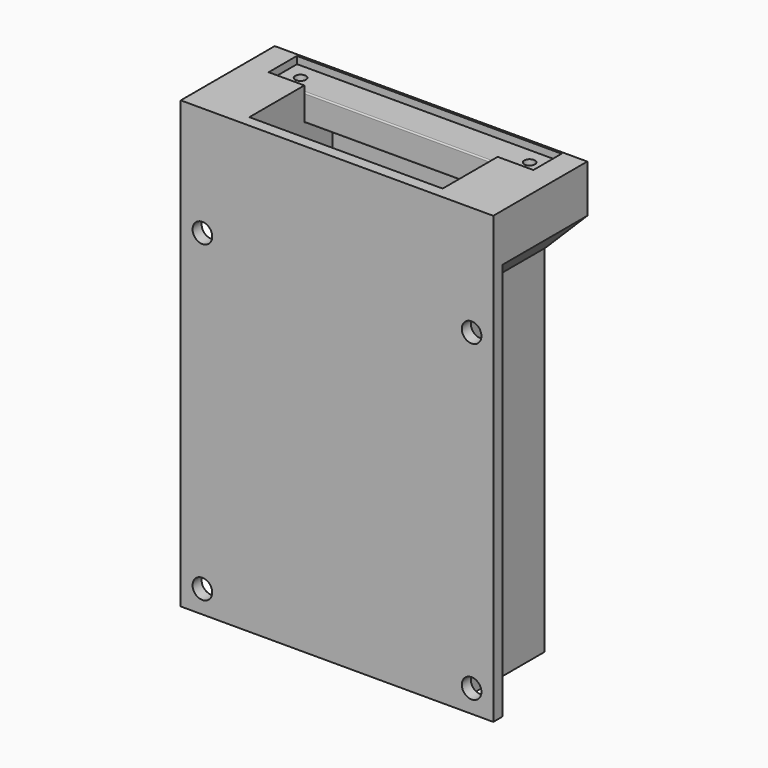
from build123d import *

# Parameters (mm, degrees)
PAD_DEPTH         = 99.8
SKETCH001_W       = 43.3
SKETCH001_H       = 23.3
POCKET_DEPTH      = 98.8
SKETCH002_W       = 9.55
SKETCH002_H       = 23.8
PAD001_DEPTH      = 20
CHAMFER_SIZE      = 9.3
SKETCH003_W       = 8
SKETCH003_H       = 7.9
POCKET001_DEPTH   = 7.4
SKETCH004_W       = 25
SKETCH004_H       = 15
POCKET002_DEPTH   = 1
SKETCH005_R       = 1.6
POCKET003_DEPTH   = 9
SKETCH006_R       = 2.2
POCKET004_DEPTH   = 2.52
FILLET_R          = 1
SKETCH007_W       = 59.3
SKETCH007_H       = 7.9
PAD002_DEPTH      = 6
PAD002_FACE4_W    = 59.3
PAD002_FACE4_H    = 6
POCKET005_DEPTH   = 0.1
POCKET005_FACE3_W = 59.3
POCKET005_FACE3_H = 6
POCKET006_DEPTH   = 0.1
POCKET006_FACE6_W = 7.7
POCKET006_FACE6_H = 6
POCKET007_DEPTH   = 0.1
POCKET007_FACE1_W = 7.7
POCKET007_FACE1_H = 6
POCKET008_DEPTH   = 0.1
SKETCH008_R       = 1.2
POCKET009_DEPTH   = 6
FILLET001_R       = 0.3


with BuildPart() as body:
    # Sketch → Pad (new body)
    with BuildSketch(Plane.XY):
        Polygon((0, 0), (70, 0), (70, 2.52), (60.45, 2.52), (60.45, 26.32), (9.55, 26.32), (9.55, 2.52), (0, 2.52), align=None)
    extrude(amount=PAD_DEPTH)

    # Sketch001 (on Face10 of Pad) → Pocket (cut)
    with BuildSketch(Plane.XY.offset(99.8)):
        with Locations((35, 14.17)):
            Rectangle(SKETCH001_W, SKETCH001_H)
    extrude(amount=-POCKET_DEPTH, mode=Mode.SUBTRACT)

    # Sketch002 (on Face5 of Pocket) → Pad001 (join)
    with BuildSketch(Plane.XY.offset(99.8)):
        with Locations((65.225, 14.42)):
            Rectangle(SKETCH002_W, SKETCH002_H)
        with Locations((4.775, 14.42)):
            Rectangle(SKETCH002_W, SKETCH002_H)
    extrude(amount=-PAD001_DEPTH)

    # Chamfer
    chamfer_edges = [body.edges().sort_by_distance(p)[0] for p in [
        (0, 14.42, 79.8),
        (70, 14.42, 79.8),
    ]]
    chamfer(chamfer_edges, length=CHAMFER_SIZE)

    # Sketch003 (on Face8 of Chamfer) → Pocket001 (cut)
    with BuildSketch(Plane.XY.offset(99.8)):
        with Locations((9.35, 21.87)):
            Rectangle(SKETCH003_W, SKETCH003_H)
        with Locations((60.65, 21.87)):
            Rectangle(SKETCH003_W, SKETCH003_H)
    extrude(amount=-POCKET001_DEPTH, mode=Mode.SUBTRACT)

    # Sketch004 (on Face23 of Pocket001) → Pocket002 (cut)
    with BuildSketch(Plane.XY.offset(1)):
        with Locations((35, 14.17)):
            Rectangle(SKETCH004_W, SKETCH004_H)
    extrude(amount=-POCKET002_DEPTH, mode=Mode.SUBTRACT)

    # Sketch005 (on Face28 of Pocket002) → Pocket003 (cut)
    with BuildSketch(Plane.XY.offset(92.4)):
        with Locations((9.35, 21.87)):
            Circle(SKETCH005_R)
        with Locations((60.65, 21.87)):
            Circle(SKETCH005_R)
    extrude(amount=-POCKET003_DEPTH, mode=Mode.SUBTRACT)

    # Sketch006 (on Face1 of Pocket003) → Pocket004 (cut)
    with BuildSketch(Plane(origin=(0, 2.52, 0), x_dir=(-1, 0, 0), z_dir=(0, 1, 0))):
        with Locations((-65.15, 75.23)):
            Circle(SKETCH006_R)
        with Locations((-65.15, 5.05)):
            Circle(SKETCH006_R)
        with Locations((-4.85, 75.23)):
            Circle(SKETCH006_R)
        with Locations((-4.85, 5.05)):
            Circle(SKETCH006_R)
    extrude(amount=-POCKET004_DEPTH, mode=Mode.SUBTRACT)

    # Fillet
    fillet_edges = [body.edges().sort_by_distance(p)[0] for p in [
        (9.55, 2.52, 39.9),
        (60.45, 2.52, 39.9),
    ]]
    fillet(fillet_edges, radius=FILLET_R)


with BuildPart() as bar:
    # Sketch007 (on Face1 of Binder) → Pad002 (new body)
    with BuildSketch(Plane.XY.offset(92.4)):
        with Locations((35, 21.87)):
            Rectangle(SKETCH007_W, SKETCH007_H)
    extrude(amount=PAD002_DEPTH)

    # Pad002 Face4 → Pocket005 (cut)
    with BuildSketch(Plane(origin=(35, 25.82, 95.4), x_dir=(1, 0, 0), z_dir=(0, 1, 0))):
        Rectangle(PAD002_FACE4_W, PAD002_FACE4_H)
    extrude(amount=-POCKET005_DEPTH, mode=Mode.SUBTRACT)

    # Pocket005 Face3 → Pocket006 (cut)
    with BuildSketch(Plane(origin=(35, 17.92, 95.4), x_dir=(-1, 0, 0), z_dir=(0, -1, 0))):
        Rectangle(POCKET005_FACE3_W, POCKET005_FACE3_H)
    extrude(amount=-POCKET006_DEPTH, mode=Mode.SUBTRACT)

    # Pocket006 Face6 → Pocket007 (cut)
    with BuildSketch(Plane(origin=(64.65, 21.87, 95.4), x_dir=(0, -1, 0), z_dir=(1, 0, 0))):
        Rectangle(POCKET006_FACE6_W, POCKET006_FACE6_H)
    extrude(amount=-POCKET007_DEPTH, mode=Mode.SUBTRACT)

    # Pocket007 Face1 → Pocket008 (cut)
    with BuildSketch(Plane(origin=(5.35, 21.87, 95.4), x_dir=(0, 1, 0), z_dir=(-1, 0, 0))):
        Rectangle(POCKET007_FACE1_W, POCKET007_FACE1_H)
    extrude(amount=-POCKET008_DEPTH, mode=Mode.SUBTRACT)

    # Sketch008 (on Face1 of Binder) → Pocket009 (cut)
    with BuildSketch(Plane.XY.offset(92.4)):
        with Locations((9.35, 21.87)):
            Circle(SKETCH008_R)
        with Locations((60.65, 21.87)):
            Circle(SKETCH008_R)
    extrude(amount=POCKET009_DEPTH, mode=Mode.SUBTRACT)

    # Fillet001
    fillet001_edges = [bar.edges().sort_by_distance(p)[0] for p in [
        (35, 25.72, 92.4),
        (35, 25.72, 98.4),
        (5.45, 25.72, 95.4),
        (5.45, 21.87, 92.4),
        (5.45, 18.02, 95.4),
        (5.45, 21.87, 98.4),
        (35, 18.02, 92.4),
        (64.55, 21.87, 92.4),
        (35, 18.02, 98.4),
        (64.55, 21.87, 98.4),
        (64.55, 25.72, 95.4),
        (64.55, 18.02, 95.4),
    ]]
    fillet(fillet001_edges, radius=FILLET001_R)


solid = Compound([body.part, bar.part])
